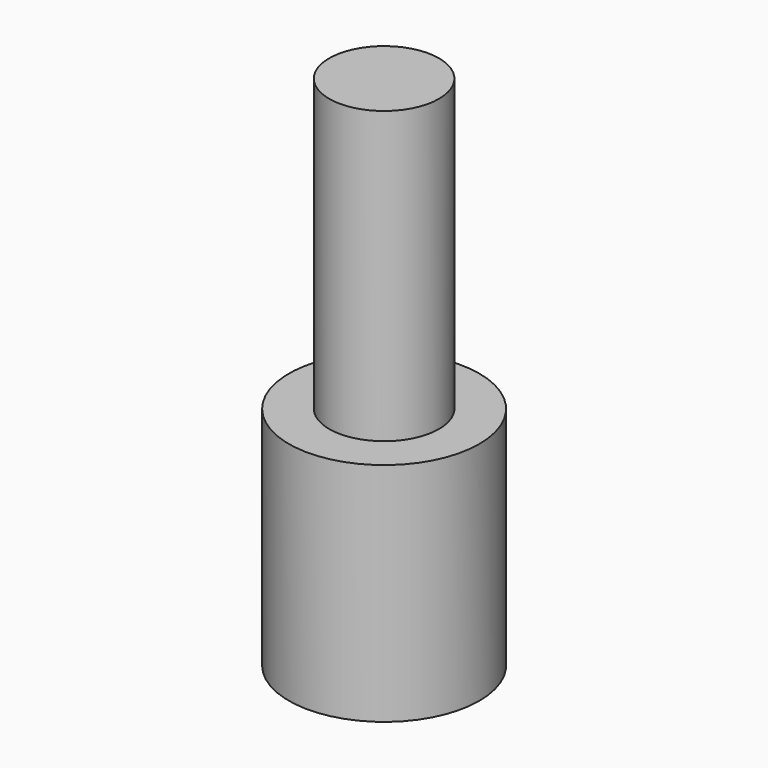
from build123d import *

# Parameters (mm, degrees)
CYLINDER_R        = 2.95
CYLINDER_DEPTH    = 7
CYLINDER001_R     = 1.7
CYLINDER001_DEPTH = 10


with BuildPart() as m3bolthead:
    # Cylinder → Cylinder (new body)
    with BuildSketch(Plane.XY):
        Circle(CYLINDER_R)
    extrude(amount=CYLINDER_DEPTH)


with BuildPart() as m3bolt:
    # Cylinder001 → Cylinder001 (new body)
    with BuildSketch(Plane.XY.offset(6)):
        Circle(CYLINDER001_R)
    extrude(amount=CYLINDER001_DEPTH)

    # Fusion: union M3BoltHead
    add(m3bolthead.part)


solid = m3bolt.part
